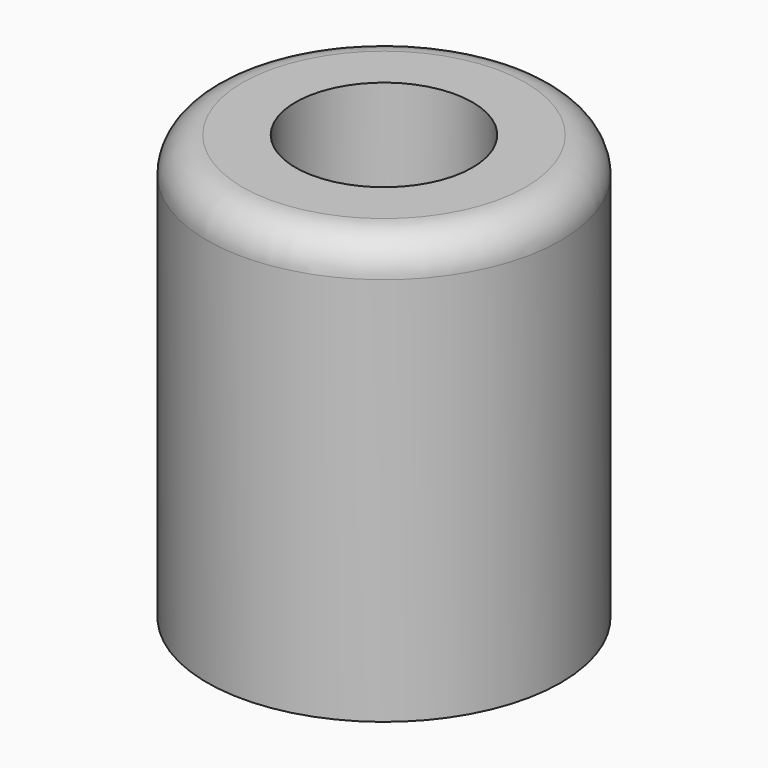
from build123d import *

# Parameters (mm, degrees)
F0_R     = 12.5
F1_DEPTH = 25
F0_R_2   = 25
F2_DEPTH = 60
F3_R     = 5


with BuildPart() as f1:
    # F0 (on Top) → F1 (new body)
    with BuildSketch(Plane.XY):
        Circle(F0_R)
    extrude(amount=F1_DEPTH)

    # F0 (on Top) → F2 (join)
    with BuildSketch(Plane.XY):
        Circle(F0_R_2)
        Circle(F0_R, mode=Mode.SUBTRACT)
    extrude(amount=F2_DEPTH)

    # F3
    f3_edges = [f1.edges().sort_by_distance(p)[0] for p in [
        (-25, 0, 60),
    ]]
    fillet(f3_edges, radius=F3_R)


solid = f1.part
